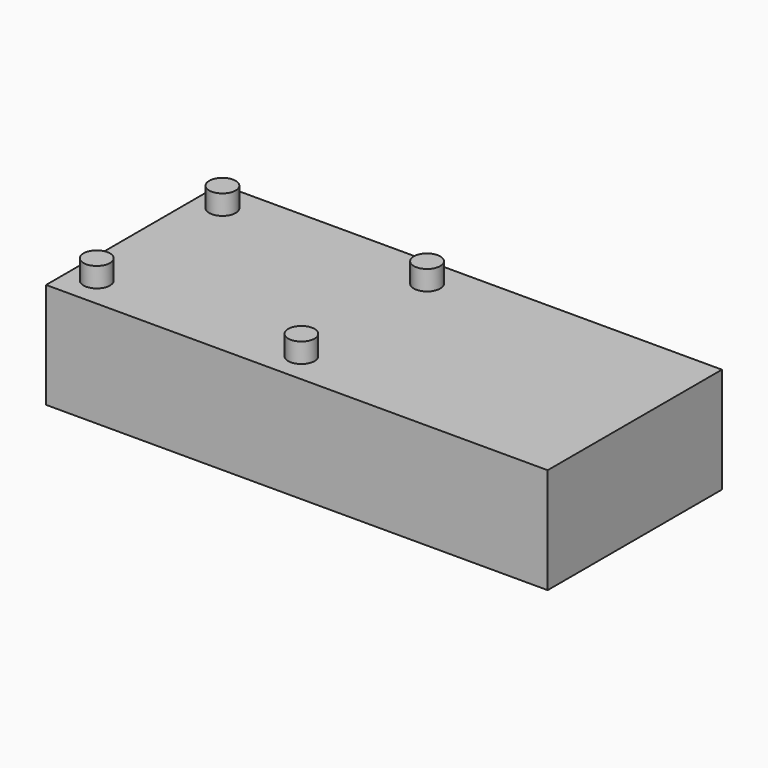
from build123d import *

# Parameters (mm, degrees)
F0_W     = 38
F0_H     = 16.5
F1_DEPTH = 8
F2_R     = 1
F3_DEPTH = 1.5


with BuildPart() as f1:
    # F0 (on Top) → F1 (new body)
    with BuildSketch(Plane.XY):
        Rectangle(F0_W, F0_H)
    extrude(amount=-F1_DEPTH)

    # F2 (on face) → F3 (join)
    with BuildSketch(Plane.XY):
        with Locations((-17, 5.95)):
            Circle(F2_R)
        with Locations((-17, -5.95)):
            Circle(F2_R)
        with Locations((-1.5, 5.95)):
            Circle(F2_R)
        with Locations((-1.5, -5.95)):
            Circle(F2_R)
    extrude(amount=F3_DEPTH)


solid = f1.part
